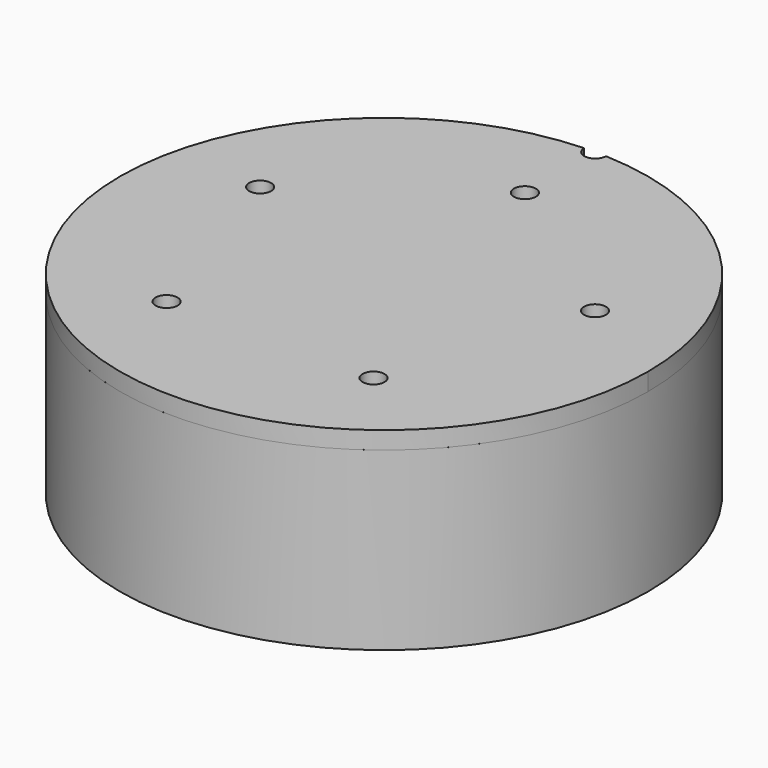
from build123d import *

# Parameters (mm, degrees)
F1_R     = 38.1
F1_R_2   = 1.5875
F2_DEPTH = 25.4
F0_R     = 1.5875
F3_DEPTH = 2.54


with BuildPart() as f2:
    # F1 (on Top) → F2 (new body)
    with BuildSketch(Plane.XY):
        Circle(F1_R)
        with Locations((-5.280957, -24.844949)):
            Circle(F1_R_2, mode=Mode.SUBTRACT)
        with Locations((25.260856, -2.655023)):
            Circle(F1_R_2, mode=Mode.SUBTRACT)
        with Locations((0, 25.4)):
            Circle(F1_R_2, mode=Mode.SUBTRACT)
    extrude(amount=-F2_DEPTH)


with BuildPart() as f3:
    # F0 (on Top) → F3 (new body)
    with BuildSketch(Plane.XY):
        with BuildLine():
            ThreePointArc((-1.587155, 38.066927), (-26.373655, -27.496187), (38.1, 0))
            ThreePointArc((38.1, 0), (27.496187, 26.373655), (1.587155, 38.066927))
            ThreePointArc((1.587155, 38.066927), (0, 36.5125), (-1.587155, 38.066927))
        make_face()
        with Locations((-14.929745, -20.549032)):
            Circle(F0_R, mode=Mode.SUBTRACT)
        with Locations((14.929745, -20.549032)):
            Circle(F0_R, mode=Mode.SUBTRACT)
        with Locations((-24.156836, 7.849032)):
            Circle(F0_R, mode=Mode.SUBTRACT)
        with Locations((24.156836, 7.849032)):
            Circle(F0_R, mode=Mode.SUBTRACT)
        with Locations((0, 25.4)):
            Circle(F0_R, mode=Mode.SUBTRACT)
    extrude(amount=F3_DEPTH)


solid = Compound([f2.part, f3.part])
